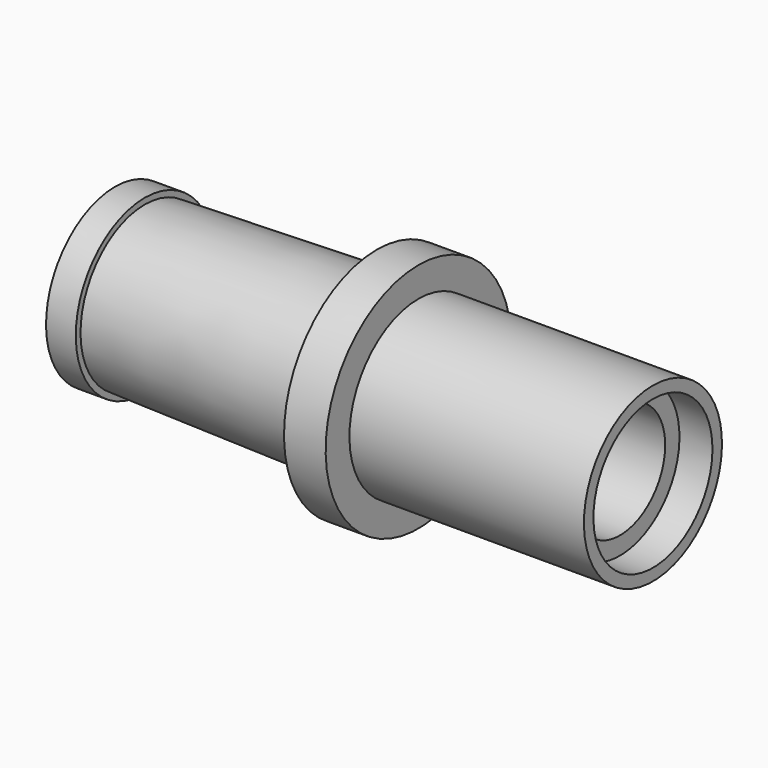
from build123d import *


with BuildPart() as f1:
    # F0 (on Front) → F1 (revolve)
    with BuildSketch(Plane.XZ):
        Polygon((0, 1.27), (0, 0), (-9.906, -0.254), (-9.906, 0), (-11.176, 0), (-11.176, -0.508), (-4.826, -0.508), (-4.826, -1.27), (0, -1.27), (0, -3.683), (2.00025, -3.683), (2.00025, -1.27), (10.38225, -1.27), (10.38225, -0.508), (11.789835, -0.508), (11.789835, 0), (1.778, 0), (1.778, 1.27), align=None)
    revolve(axis=Axis((-0.71389, 0, -3.683), (-1, 0, 0)))


solid = f1.part
